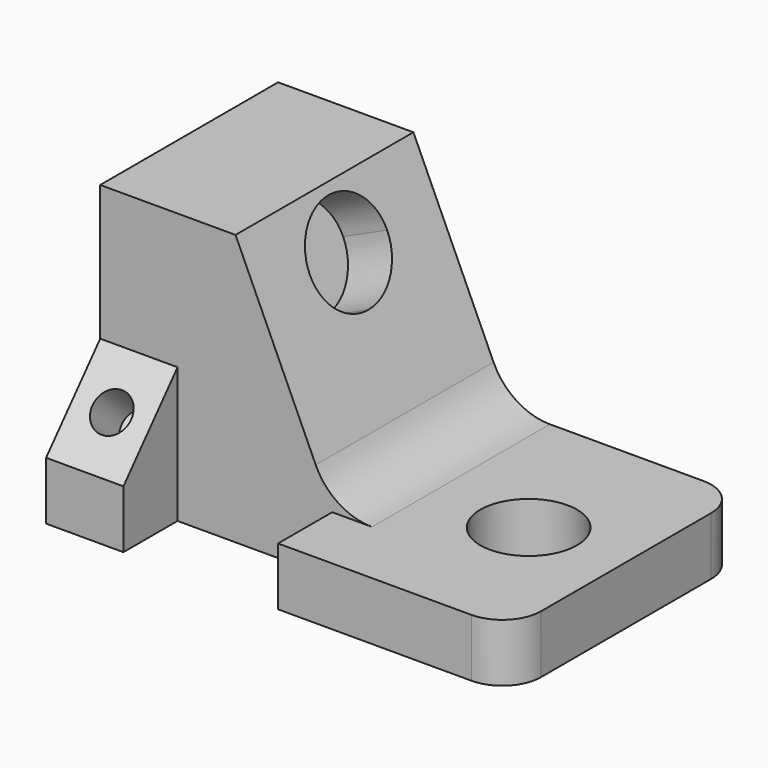
from build123d import *

# Parameters (mm, degrees)
F0_W      = 40
F0_H      = 35
F1_DEPTH  = 30
F2_DEPTH  = 70
F4_DEPTH  = 96
F5_DEPTH  = 140
F8_DEPTH  = 248
F9_DEPTH  = 25
F10_R     = 32
F11_R     = 20
F13_DEPTH = 140
F15_DEPTH = 25


with BuildPart() as f1:
    # F0 (on Top) → F1 (new body)
    with BuildSketch(Plane.XY):
        Polygon((56.0757917166, 106.4831405878), (-63.9242082834, 106.4831405878), (-63.9242082834, -8.5168594122), (-23.9242082834, -8.5168594122), (56.0757917166, -8.5168594122), align=None)
        with Locations((-43.9242082834, -26.0168594122)):
            Rectangle(F0_W, F0_H)
        Polygon((176.0757917166, 106.4831405878), (56.0757917166, 106.4831405878), (56.0757917166, -8.5168594122), (56.0757917166, -43.5168594122), (176.0757917166, -43.5168594122), align=None)
    extrude(amount=F1_DEPTH)



with BuildPart() as f2:
    # F0 (on Top) → F2 (new body)
    with BuildSketch(Plane.XY):
        with Locations((-43.9242082834, -26.0168594122)):
            Rectangle(F0_W, F0_H)
    extrude(amount=F2_DEPTH)

    # F3 (on face) → F4 (cut)
    with BuildSketch(Plane.YZ.offset(-23.9242082834)):
        Polygon((-43.5168594122, 70), (-43.5168594122, 30), (-8.5168594122, 70), align=None)
    extrude(amount=-F4_DEPTH, mode=Mode.SUBTRACT)


with BuildPart() as f1_1:
    add(f1.part)

    add(f2.part)  # F5 merges F2
    # F0 (on Top) → F5 (join)
    with BuildSketch(Plane.XY):
        Polygon((56.0757917166, 106.4831405878), (-63.9242082834, 106.4831405878), (-63.9242082834, -8.5168594122), (-23.9242082834, -8.5168594122), (56.0757917166, -8.5168594122), align=None)
    extrude(amount=F5_DEPTH)

    # F7 (on face) → F8 (cut)
    with BuildSketch(Plane.XZ.offset(8.5168594122)):
        Polygon((6.0757917166, 140), (56.0757917166, 30), (56.0757917166, 140), align=None)
    extrude(amount=-F8_DEPTH, mode=Mode.SUBTRACT)

    # F6 (on face) → F9 (cut)
    with BuildSketch(Plane(origin=(0, -39.5139734724, 34.5747267883), x_dir=(1, 0, 0), z_dir=(0, -0.7525766947, 0.6585046079))):
        with BuildLine():
            ThreePointArc((-33.9242082834, 20.4966129301), (-36.8531404716, 27.567680742), (-43.9242082834, 30.4966129301))
            Line((-43.9242082834, 30.4966129301), (-43.9242082834, 10.4966129301))
            ThreePointArc((-43.9242082834, 10.4966129301), (-36.8531404716, 13.4255451183), (-33.9242082834, 20.4966129301))
        make_face()
        with BuildLine():
            Line((-43.9242082834, 10.4966129301), (-43.9242082834, 30.4966129301))
            ThreePointArc((-43.9242082834, 30.4966129301), (-53.9242082834, 20.4966129301), (-43.9242082834, 10.4966129301))
        make_face()
    extrude(amount=-F9_DEPTH, mode=Mode.SUBTRACT)

    # F10
    f10_edges = [f1_1.edges().sort_by_distance(p)[0] for p in [
        (56.075792, 48.983141, 30),
    ]]
    fillet(f10_edges, radius=F10_R)

    # F11
    f11_edges = [f1_1.edges().sort_by_distance(p)[0] for p in [
        (176.075792, 106.483141, 15),
        (176.075792, -43.516859, 15),
    ]]
    fillet(f11_edges, radius=F11_R)

    # F12 (on face) → F13 (cut)
    with BuildSketch(Plane.XY.offset(30)):
        with BuildLine():
            ThreePointArc((151.3784040418, 30.6200258434), (151.3774616534, 30.8370938767), (151.3746345593, 31.0541455451))
            Line((151.3746345593, 31.0541455451), (101.3821735243, 30.1859061416))
            ThreePointArc((101.3821735243, 30.1859061416), (126.5954720752, 5.6209682318), (151.3784040418, 30.6200258434))
        make_face()
        with BuildLine():
            Line((101.3821735243, 30.1859061416), (151.3746345593, 31.0541455451))
            ThreePointArc((151.3746345593, 31.0541455451), (125.9442843401, 55.6162563609), (101.3821735243, 30.1859061416))
        make_face()
    extrude(amount=-F13_DEPTH, mode=Mode.SUBTRACT)

    # F14 (on face) → F15 (cut)
    with BuildSketch(Plane(origin=(57.77514245, 0, 26.2614283864), x_dir=(0, 1, 0), z_dir=(0.9103664775, 0, 0.4138029443))):
        with BuildLine():
            Line((48.9831405878, 119.9371263435), (48.9831405878, 107.1728393435))
            Line((48.9831405878, 107.1728393435), (48.9831405878, 94.9371263435))
            Line((48.9831405878, 94.9371263435), (48.9831405878, 69.9371263435))
            ThreePointArc((48.9831405878, 69.9371263435), (66.6608101175, 77.2594568138), (73.9831405878, 94.9371263435))
            ThreePointArc((73.9831405878, 94.9371263435), (66.6608101175, 112.6147958731), (48.9831405878, 119.9371263435))
        make_face()
        with BuildLine():
            Line((48.9831405878, 94.9371263435), (48.9831405878, 107.1728393435))
            Line((48.9831405878, 107.1728393435), (48.9831405878, 119.9371263435))
            ThreePointArc((48.9831405878, 119.9371263435), (23.9831405878, 94.9371263435), (48.9831405878, 69.9371263435))
            Line((48.9831405878, 69.9371263435), (48.9831405878, 94.9371263435))
        make_face()
    extrude(amount=-F15_DEPTH, mode=Mode.SUBTRACT)


solid = f1_1.part
